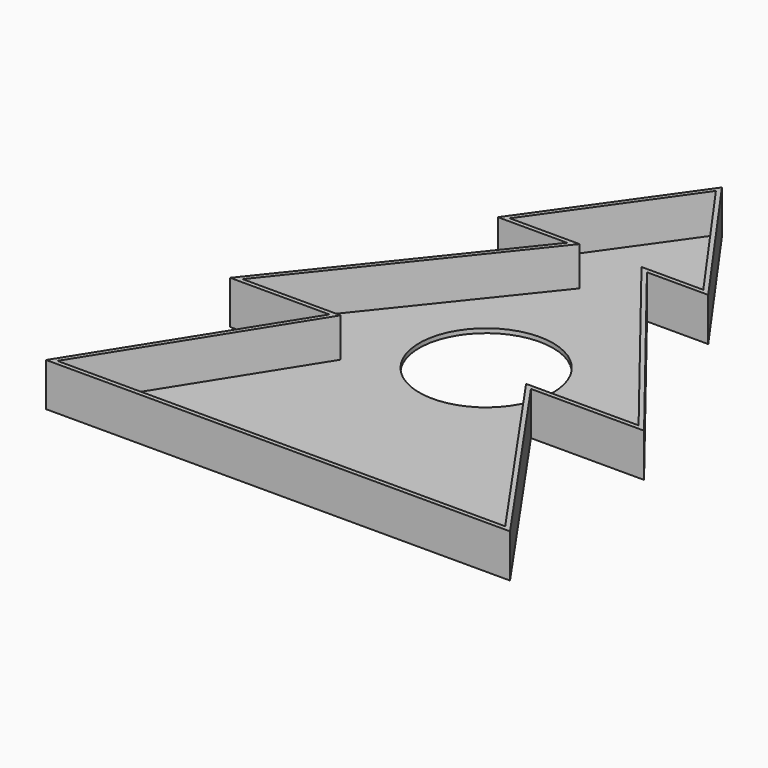
from build123d import *

# Parameters (mm, degrees)
F1_DEPTH = 10
F2_T     = -1
F3_R     = 15.4445915984
F4_DEPTH = 25


with BuildPart() as f1:
    # F0 (on Top) → F1 (new body)
    with BuildSketch(Plane.XY):
        Polygon((-24.2622910139, -14.8777581411), (-53.029731502, -60.6361962855), (54.0178157389, -60.6361962855), (22.2354376062, -14.8777581411), (48.3378368161, -14.8777581411), (10.1295774803, 33.7235331535), (24.2622910139, 33.7235331535), (0, 68.0067832147), (-24.2622910139, 33.7235331535), (-8.3033312269, 33.7235331535), (-47.1593588355, -14.8777581411), align=None)
    extrude(amount=F1_DEPTH)

    # F2
    f2_openings = [f1.faces().sort_by_distance(p)[0] for p in [
        (0.198833, -13.317224, 10),
    ]]
    offset(amount=F2_T, openings=f2_openings, kind=Kind.INTERSECTION)

    # F3 (on face) → F4 (cut)
    with BuildSketch(Plane.XY.offset(1)):
        Circle(F3_R)
    extrude(amount=-F4_DEPTH, mode=Mode.SUBTRACT)


solid = f1.part
